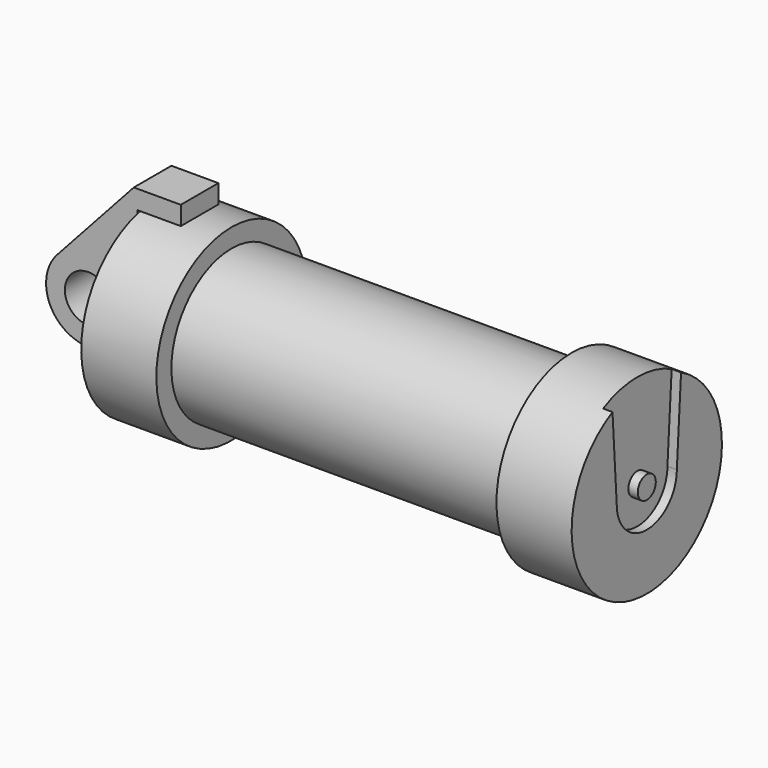
from build123d import *

# Parameters (mm, degrees)
F0_R     = 3.175
F1_DEPTH = 3.175
F0_W     = 5.842
F0_H     = 12.7
F3_R     = 1.524
F4_DEPTH = 1.27


with BuildPart() as f1:
    # F0 (on Front) → F1 (new body, symmetric)
    with BuildSketch(Plane.XZ):
        with BuildLine():
            Line((-0.9398, 0), (0, 0))
            Line((0, 0), (0, 12.7))
            Line((0, 12.7), (5.842, 12.7))
            Line((5.842, 12.7), (5.842, 15.24))
            Line((5.842, 15.24), (-0.508, 15.24))
            Line((-0.508, 15.24), (-10.8806298187, 3.8475430269))
            ThreePointArc((-10.8806298187, 3.8475430269), (-4.5919612295, 5.3297205562), (-0.9398, 0))
        make_face()
        with BuildLine():
            Line((5.842, 0), (0, 0))
            Line((0, 0), (-0.9398, 0))
            ThreePointArc((-0.9398, 0), (-3.1957909266, -4.5493385486), (-8.1826630726, -5.5069827884))
            Line((-8.1826630726, -5.5069827884), (5.842, -9.398))
            Line((5.842, -9.398), (5.842, 0))
        make_face()
        with BuildLine():
            ThreePointArc((-8.1826630726, -5.5069827884), (-3.1957909266, -4.5493385486), (-0.9398, 0))
            ThreePointArc((-0.9398, 0), (-4.5919612295, 5.3297205562), (-10.8806298187, 3.8475430269))
            ThreePointArc((-10.8806298187, 3.8475430269), (-12.1459778134, -1.5837270034), (-8.1826630726, -5.5069827884))
        make_face()
        with Locations((-6.6548, 0)):
            Circle(F0_R, mode=Mode.SUBTRACT)
    extrude(amount=F1_DEPTH, both=True)


with BuildPart() as f2:
    # F0 (on Front) → F2 (revolve)
    with BuildSketch(Plane.XZ):
        with Locations((2.921, 6.35)):
            Rectangle(F0_W, F0_H)
        Polygon((5.842, 12.7), (5.842, 0), (66.294, 0), (66.294, 12.7), (56.134, 12.7), (56.134, 10.16), (10.16, 10.16), (10.16, 12.7), align=None)
    revolve(axis=Axis((33.147, 0, 0), (-1, 0, 0)))

    # F3 (on face) → F4 (cut)
    with BuildSketch(Plane.YZ.offset(66.294)):
        with BuildLine():
            ThreePointArc((-5.792347252, 11.3021552508), (0, 12.7), (5.792347252, 11.3021552508))
            Line((5.792347252, 11.3021552508), (6.0412399471, 15.24))
            Line((6.0412399471, 15.24), (-6.0412399471, 15.24))
            Line((-6.0412399471, 15.24), (-5.792347252, 11.3021552508))
        make_face()
        with BuildLine():
            ThreePointArc((-5.0799093356, 0.0303503178), (0, 5.08), (5.0799093356, 0.0303503178))
            Line((5.0799093356, 0.0303503178), (5.792347252, 11.3021552508))
            ThreePointArc((5.792347252, 11.3021552508), (0, 12.7), (-5.792347252, 11.3021552508))
            Line((-5.792347252, 11.3021552508), (-5.0799093356, 0.0303503178))
        make_face()
        with BuildLine():
            ThreePointArc((-5.0799093356, 0.0303503178), (-0.0151752266, -5.0799773339), (5.08, 0))
            ThreePointArc((5.08, 0), (5.0799773339, 0.0151752266), (5.0799093356, 0.0303503178))
            ThreePointArc((5.0799093356, 0.0303503178), (0, 5.08), (-5.0799093356, 0.0303503178))
        make_face()
        Circle(F3_R, mode=Mode.SUBTRACT)
    extrude(amount=-F4_DEPTH, mode=Mode.SUBTRACT)


solid = Compound([f1.part, f2.part])
